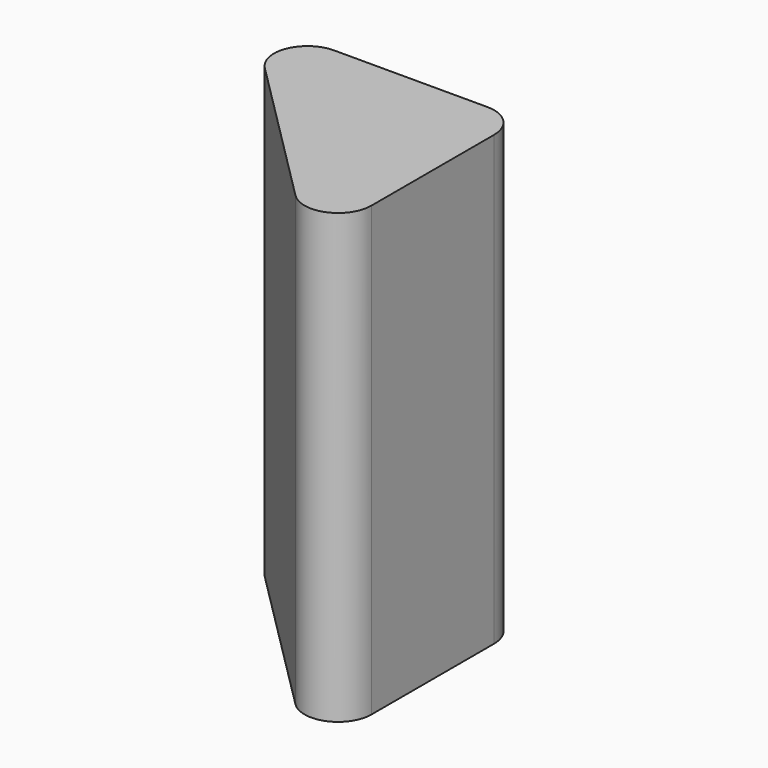
from build123d import *

# Parameters (mm, degrees)
F0_W      = 17
F0_H      = 17
F1_DEPTH  = 100
F4_DEPTH  = 2
F7_DEPTH  = 30
F10_DEPTH = 2
F11_R     = 10


with BuildPart() as f1:
    # F0 (on Top) → F1 (new body)
    with BuildSketch(Plane.XY):
        Polygon((40, -37.3566303961), (40, 40), (-40, 40), (-38, 38), (40, -40), align=None)
        Polygon((20.4142135624, 19), (38, 19), (38, -35.3566303961), (2.0287915831, 0.6145780208), align=None, mode=Mode.SUBTRACT)
        Polygon((19, 20.4142135624), (0.6145780208, 2.0287915831), (-35.3566303961, 38), (19, 38), align=None, mode=Mode.SUBTRACT)
        with Locations((29.5, 29.5)):
            Rectangle(F0_W, F0_H, mode=Mode.SUBTRACT)
    extrude(amount=F1_DEPTH)

    # F3 (on offset) → F4 (join)
    with BuildSketch(Plane.XY.offset(100)):
        Polygon((40, 40), (-40, 40), (0, 0), (40, -40), align=None)
        Polygon((21.0052309155, 18.2000048862), (37.2052026456, 18.2302694688), (37.3013024139, -33.2098427904), (3.2906330243, 0.673986953), (20.7508157718, 18.199529591), align=None, mode=Mode.SUBTRACT)
        Polygon((0.7071067812, 3.2526911935), (-33.2402020254, 37.2), (18.2, 37.2), (18.2, 21), (18.2, 20.7455844123), align=None, mode=Mode.SUBTRACT)
        Polygon((37.999970334, 21.03175913), (21, 21), (21, 38), (37.9682704806, 38), align=None, mode=Mode.SUBTRACT)
    extrude(amount=F4_DEPTH)

    # F6 (on offset) → F7 (join)
    with BuildSketch(Plane.XY.offset(102)):
        Polygon((40, -40), (40, 40), (-40, 40), align=None)
        Polygon((-35.1715728753, 38), (38, 38), (38, -35.1715728753), align=None, mode=Mode.SUBTRACT)
    extrude(amount=F7_DEPTH)

    # F9 (on offset) → F10 (join)
    with BuildSketch(Plane.XY.offset(132)):
        Polygon((40, -40), (40, 40), (-40, 40), align=None)
    extrude(amount=F10_DEPTH)

    # F11
    f11_edges = [f1.edges().sort_by_distance(p)[0] for p in [
        (-35.35663, 38, 50),
        (-33.240202, 37.2, 101),
        (-35.171573, 38, 117),
        (-40, 40, 67),
        (38, -35.35663, 50),
        (40, -40, 67),
        (37.301302, -33.209843, 101),
        (38, -35.171573, 117),
        (38, 38, 50),
        (40, 40, 67),
    ]]
    fillet(f11_edges, radius=F11_R)


solid = f1.part
